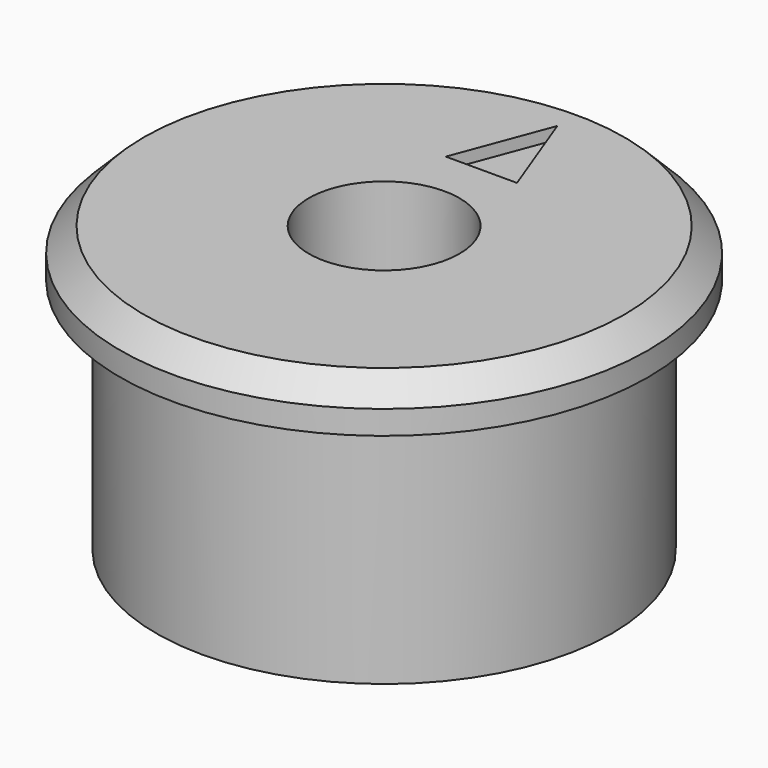
from build123d import *

# Parameters (mm, degrees)
F0_R     = 9.6
F1_DEPTH = 10
F3_R     = 11.125
F4_DEPTH = 2
F5_SIZE  = 1
F6_R     = 3.175
F7_DEPTH = 12.001
F9_DEPTH = 0.5


with BuildPart() as f1:
    # F0 (on Top) → F1 (new body)
    with BuildSketch(Plane.XY):
        Circle(F0_R)
    extrude(amount=-F1_DEPTH)

    # F3 (on face) → F4 (join)
    with BuildSketch(Plane.XY):
        Circle(F3_R)
    extrude(amount=F4_DEPTH)

    # F5
    f5_edges = [f1.edges().sort_by_distance(p)[0] for p in [
        (-11.125, 0, 2),
    ]]
    chamfer(f5_edges, length=F5_SIZE)

    # F6 (on face) → F7 (cut, through all)
    with BuildSketch(Plane.XY.offset(2)):
        Circle(F6_R)
    extrude(amount=-F7_DEPTH, mode=Mode.SUBTRACT)

    # F8 (on face) → F9 (cut)
    with BuildSketch(Plane.XY.offset(2)):
        Polygon((1.5, 5.125), (0, 9.125), (-1.5, 5.125), align=None)
    extrude(amount=-F9_DEPTH, mode=Mode.SUBTRACT)


solid = f1.part
